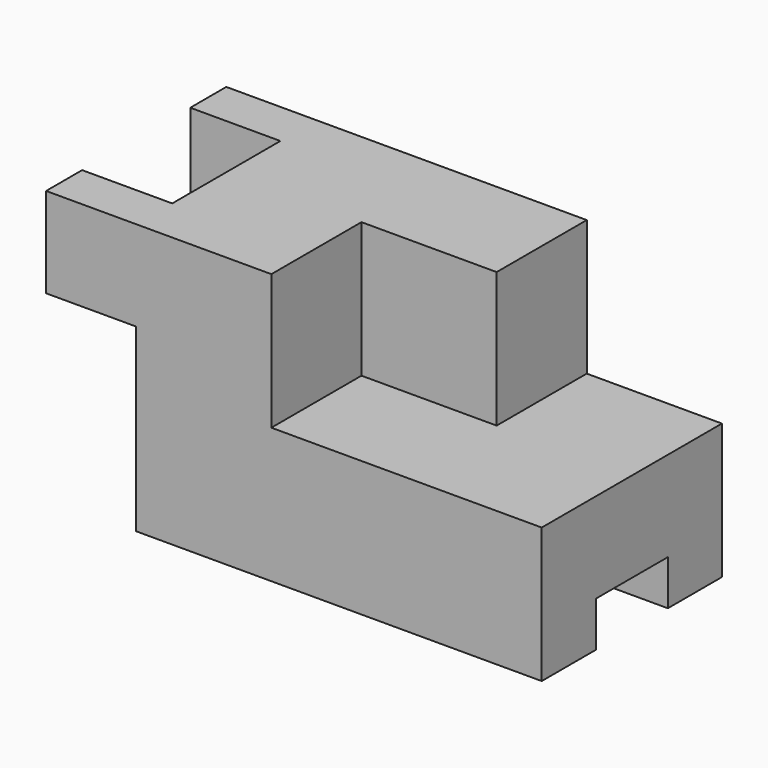
from build123d import *

# Parameters (mm, degrees)
F1_DEPTH = 50
F0_W     = 30
F0_H     = 30
F2_DEPTH = 25
F3_W     = 20
F3_H     = 30
F4_DEPTH = 60.001
F5_W     = 20
F5_H     = 10
F6_DEPTH = 110.001


with BuildPart() as f1:
    # F0 (on Front) → F1 (new body)
    with BuildSketch(Plane.XZ):
        Polygon((0, 40), (0, 0), (90, 0), (90, 30), (60, 30), (30, 30), (30, 60), (-20, 60), (-20, 40), align=None)
    extrude(amount=F1_DEPTH)

    # F0 (on Front) → F2 (join)
    with BuildSketch(Plane.XZ):
        with Locations((45, 45)):
            Rectangle(F0_W, F0_H)
    extrude(amount=F2_DEPTH)

    # F3 (on face) → F4 (cut, through all)
    with BuildSketch(Plane.XY.offset(60)):
        with Locations((-10, -25)):
            Rectangle(F3_W, F3_H)
    extrude(amount=-F4_DEPTH, mode=Mode.SUBTRACT)

    # F5 (on face) → F6 (cut, through all)
    with BuildSketch(Plane.YZ.offset(90)):
        with Locations((-25, 5)):
            Rectangle(F5_W, F5_H)
    extrude(amount=-F6_DEPTH, mode=Mode.SUBTRACT)


solid = f1.part
